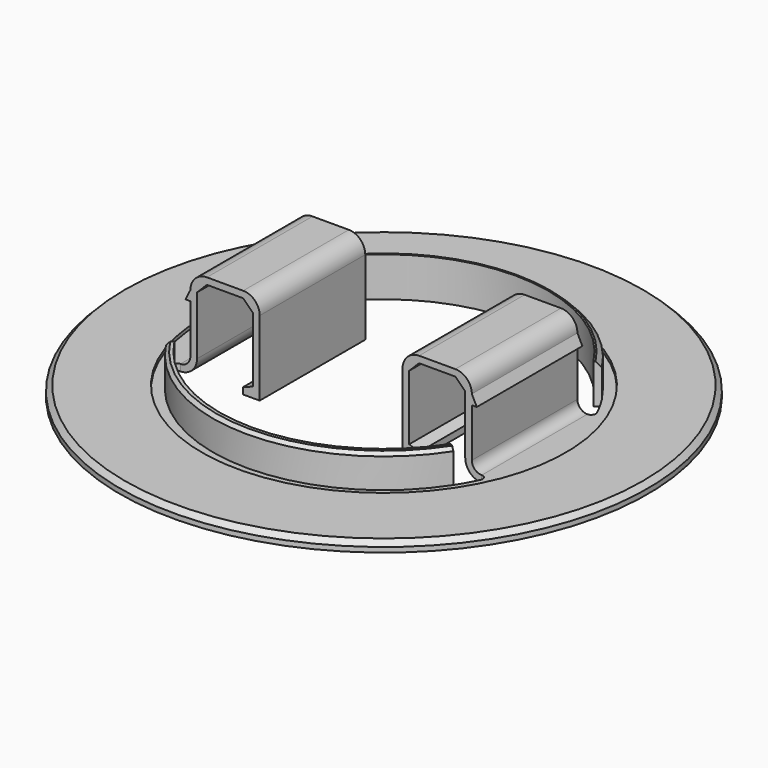
from build123d import *

# Parameters (mm, degrees)
SKETCH007_R           = 80
SKETCH007_R_2         = 55.15
EXTRUDE002_DEPTH      = 1
EXTRUDE_DEPTH         = 20
EXTRUDE003_DEPTH      = 2
EXTRUDE003_DEPTH_BACK = 10
SKETCH006_R           = 80
EXTRUDE001_DEPTH      = 2
CHAMFER_1_SIZE        = 1.5
CHAMFER_2_SIZE        = 1
CLONE_PLACEMENT_ANGLE = 180


with BuildPart() as extrude002:
    # Sketch007 → Extrude002 (new body)
    with BuildSketch(Plane.XY):
        Circle(SKETCH007_R)
        Circle(SKETCH007_R_2, mode=Mode.SUBTRACT)
    extrude(amount=-EXTRUDE002_DEPTH)


with BuildPart() as extrude002_1:
    # Extrude002 placement: moved
    add(extrude002.part.moved(Location((0, 0, 29.5))))


with BuildPart() as extrude_body:
    # Sketch005 → Extrude (new body, symmetric)
    with BuildSketch(Plane.XZ):
        with BuildLine():
            Line((-37.65, 3.8), (-26.65, 3.8))
            ThreePointArc((-26.65, 3.8), (-23.114466, 5.264466), (-21.65, 8.8))
            Line((-21.65, 8.8), (-21.65, 31.5))
            Line((-26.65, 31.5), (-21.65, 31.5))
            Line((-26.65, 31.5), (-26.65, 29.5))
            Line((-26.65, 29.5), (-23.65, 28.408089))
            Line((-23.65, 28.408089), (-23.65, 8.8))
            Line((-23.65, 8.8), (-26.65, 5.8))
            Line((-37.65, 5.8), (-26.65, 5.8))
            Line((-37.65, 5.8), (-40.65, 8.8))
            Line((-40.65, 8.8), (-40.65, 26.5))
            ThreePointArc((-40.65, 26.5), (-42.114466, 30.035534), (-45.65, 31.5))
            Line((-45.65, 29.5), (-45.65, 31.5))
            ThreePointArc((-42.65, 26.5), (-43.52868, 28.62132), (-45.65, 29.5))
            Line((-42.65, 11.8), (-42.65, 26.5))
            Line((-44.15, 11.8), (-42.65, 11.8))
            Line((-44.15, 11.8), (-42.65, 8.8))
            ThreePointArc((-42.65, 8.8), (-41.185534, 5.264466), (-37.65, 3.8))
        make_face()
    extrude(amount=EXTRUDE_DEPTH, both=True)


with BuildPart() as part_mirroring:
    # Part__Mirroring: instance of Extrude body
    add(extrude_body.part.mirror(Plane(origin=(0, 0, 0), x_dir=(0, -1, 0), z_dir=(1, 0, 0))))


with BuildPart() as frontplateoverhang:
    # Sketch008 → Extrude003 (new body, two sides)
    with BuildSketch(Plane.XY) as extrude003_sk:
        with BuildLine():
            ThreePointArc((41.88707, 27.027688), (0, 49.85), (-41.88707, 27.027688))
            Line((-41.88707, 27.027688), (-43.567594, 28.112048))
            ThreePointArc((43.567594, 28.112048), (0, 51.85), (-43.567594, 28.112048))
            Line((41.88707, 27.027688), (43.567594, 28.112048))
        make_face()
    extrude(amount=EXTRUDE003_DEPTH)
    extrude(extrude003_sk.sketch, amount=-EXTRUDE003_DEPTH_BACK)


with BuildPart() as frontplateoverhang_1:
    # Extrude003 placement: moved
    add(frontplateoverhang.part.moved(Location((0, 0, 29.5))))


with BuildPart() as part_mirroring001:
    # Part__Mirroring001: instance of frontplateoverhang
    add(frontplateoverhang_1.part.mirror(Plane(origin=(0, 0, 0), x_dir=(1, 0, 0), z_dir=(0, 1, 0))))


with BuildPart() as obj1:
    # Sketch006 → Extrude001 (new body)
    with BuildSketch(Plane.XY):
        Circle(SKETCH006_R)
        with BuildLine():
            Line((-45.65, 0), (-45.65, 20))
            ThreePointArc((-46.938294, 22.027688), (-46.851168, 20.65994), (-45.65, 20))
            ThreePointArc((46.938287, 22.027703), (-8e-06, 51.85), (-46.938294, 22.027688))
            ThreePointArc((45.65, 20), (46.851173, 20.659947), (46.938287, 22.027703))
            Line((45.65, 0), (45.65, 20))
            Line((45.65, 0), (45.65, -20))
            ThreePointArc((46.938287, -22.027703), (46.851173, -20.659947), (45.65, -20))
            ThreePointArc((-46.938294, -22.027688), (-8e-06, -51.85), (46.938287, -22.027703))
            ThreePointArc((-45.65, -20), (-46.851168, -20.65994), (-46.938294, -22.027688))
            Line((-45.65, 0), (-45.65, -20))
        make_face(mode=Mode.SUBTRACT)
    extrude(amount=EXTRUDE001_DEPTH)


with BuildPart() as obj1_1:
    # Extrude001 placement: moved
    add(obj1.part.moved(Location((0, 0, 29.5))))

    # Fusion: union Extrude002, Part__Mirroring, Extrude body, Part__Mirroring001, frontplateoverhang
    add(extrude002_1.part)
    add(part_mirroring.part)
    add(extrude_body.part)
    add(part_mirroring001.part)
    add(frontplateoverhang_1.part)

    # Chamfer 1
    chamfer_1_edges = [obj1_1.edges().sort_by_distance(p)[0] for p in [
        (-80, 0, 28.5),
        (0, 51.85, 19.5),
    ]]
    chamfer(chamfer_1_edges, length=CHAMFER_1_SIZE)

    # Chamfer 2
    chamfer_2_edges = [obj1_1.edges().sort_by_distance(p)[0] for p in [
        (0, -51.85, 19.5),
    ]]
    chamfer(chamfer_2_edges, length=CHAMFER_2_SIZE)


with BuildPart() as obj1_2:
    # Clone placement: moved
    add(obj1_1.part.moved(Location((0, 0, 31.5))).rotate(Axis((0, 0, 31.5), (0, 1, 0)), CLONE_PLACEMENT_ANGLE))


solid = obj1_2.part
